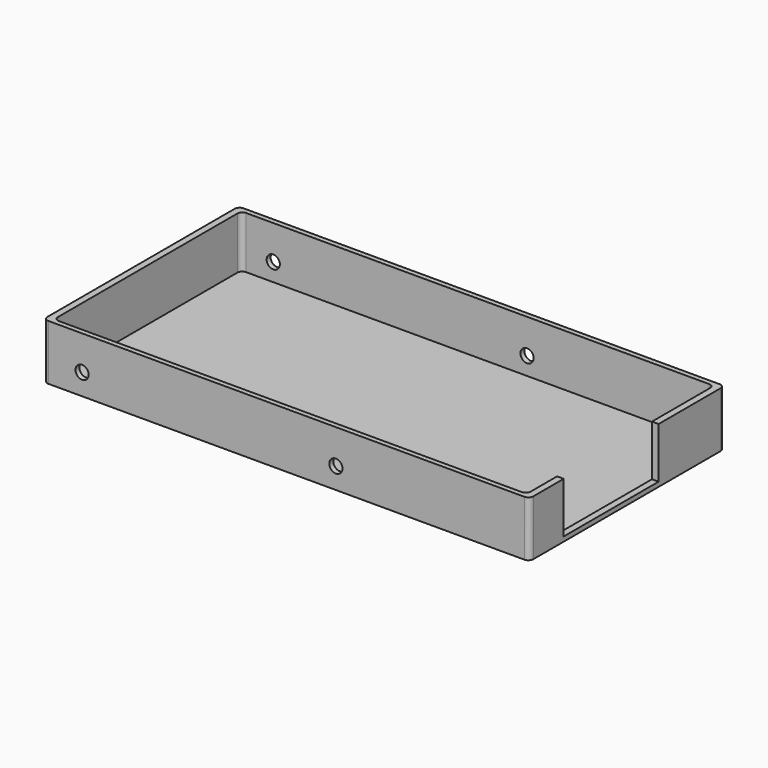
from build123d import *

# Parameters (mm, degrees)
CYLINDER_R       = 2
CYLINDER_DEPTH   = 100
ARRAY002_X_COUNT = 2
ARRAY002_X_PITCH = 77
BOX009_W         = 30
BOX009_H         = 36
BOX009_DEPTH     = 20
BOX001_W         = 143.4
BOX001_H         = 71
BOX001_DEPTH     = 17.3
BOX_W            = 147.4
BOX_H            = 74
BOX_DEPTH        = 16.8
FILLET_R         = 1.5


with BuildPart() as obj1:
    # Cylinder → Cylinder (new body)
    with BuildSketch(Plane(origin=(9.5, -16, 3.5), x_dir=(1, 0, 0), z_dir=(0, 1, 0))):
        Circle(CYLINDER_R)
    extrude(amount=CYLINDER_DEPTH)

    # Array002 X: obj1_2


with BuildPart() as obj1_1:
    add(obj1.part)
    with Locations(*[(i * ARRAY002_X_PITCH, 0, 0) for i in range(1, ARRAY002_X_COUNT)]):
        add(obj1.part)


with BuildPart() as obj1_2:
    # Body placement: moved
    add(obj1_1.part.moved(Location((2.2, 0, 2.9))))


with BuildPart() as usb_extent_hole:
    # Box009 → Box009 (new body)
    with BuildSketch(Plane(origin=(131, 13, 1.4), x_dir=(1, 0, 0), z_dir=(0, 0, 1))):
        with Locations((15, 18)):
            Rectangle(BOX009_W, BOX009_H)
    extrude(amount=BOX009_DEPTH)


with BuildPart() as bottom_body_hole_fusion:
    # Box001 → Box001 (new body)
    with BuildSketch(Plane(origin=(2, 1.5, 1), x_dir=(1, 0, 0), z_dir=(0, 0, 1))):
        with Locations((71.7, 35.5)):
            Rectangle(BOX001_W, BOX001_H)
    extrude(amount=BOX001_DEPTH)

    # Fusion: union obj1, usb extent hole
    add(obj1_2.part)
    add(usb_extent_hole.part)


with BuildPart() as bottom_fillet:
    # Box → Box (new body)
    with BuildSketch(Plane.XY):
        with Locations((73.7, 37)):
            Rectangle(BOX_W, BOX_H)
    extrude(amount=BOX_DEPTH)

    # Cut: cut bottom body hole fusion
    add(bottom_body_hole_fusion.part, mode=Mode.SUBTRACT)

    # Fillet
    fillet_edges = [bottom_fillet.edges().sort_by_distance(p)[0] for p in [
        (0, 0, 8.4),
        (0, 74, 8.4),
        (147.4, 0, 8.4),
        (147.4, 74, 8.4),
        (145.4, 72.5, 8.9),
        (145.4, 1.5, 8.9),
        (2, 72.5, 8.9),
        (2, 1.5, 8.9),
    ]]
    fillet(fillet_edges, radius=FILLET_R)


solid = bottom_fillet.part
